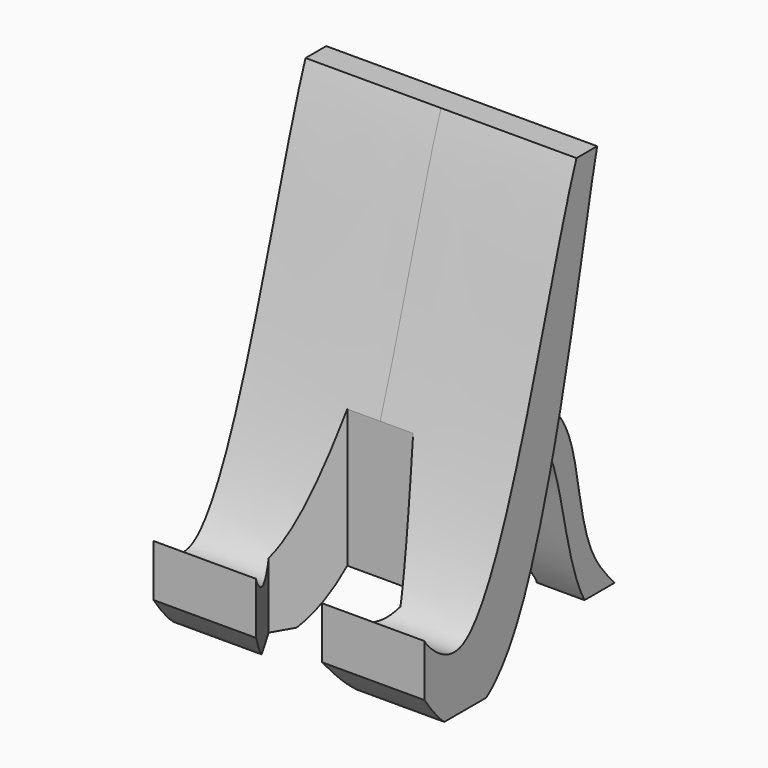
from build123d import *

# Parameters (mm, degrees)
F0_W      = 74.5288953185
F0_H      = 119.3781420588
F1_DEPTH  = 30
F3_DEPTH  = 119.3791420588
F5_DEPTH  = 47
F7_DEPTH  = 41.8
F9_DEPTH  = 25.4
F10_W     = 119.5100620389
F10_H     = 16.0929635167
F11_DEPTH = 40.3
F13_DEPTH = 67


with BuildPart() as f1:
    # F0 (on Front) → F1 (new body, symmetric)
    with BuildSketch(Plane.XZ):
        Rectangle(F0_W, F0_H)
    extrude(amount=F1_DEPTH, both=True)

    # F2 (on face) → F3 (cut, through all)
    with BuildSketch(Plane.XY.offset(59.6890710294)):
        Polygon((-9.0573634752, -30), (9.0573634752, -30), (18.1147269503, -14.3121862784), (9.0573634752, 1.3756274432), (-9.0573634752, 1.3756274432), (-18.1147269503, -14.3121862784), align=None)
    extrude(amount=-F3_DEPTH, mode=Mode.SUBTRACT)

    # F4 (on Right) → F5 (cut, symmetric)
    with BuildSketch(Plane.YZ):
        with BuildLine():
            add(Edge.make_bspline(
                [(-30.8008808643, -34.3624390662), (-29.7427929399, -36.5581158272), (-29.6678213279, -36.9559514908), (-7.5284761494, -58.8715995576), (18.2385470187, 60.9054818134), (35.8996360602, 81.0052202983), (-94.9363302503, 94.5640998475), (-36.141640614, -23.2796341319), (-30.8008808643, -34.3624390662)],
                knots=[0, 0, 0, 0, 0.0514883066, 0.1419994671, 0.4100666677, 0.5165416234, 0.7401098065, 1, 1, 1, 1], degree=3))
        make_face()
    extrude(amount=F5_DEPTH, both=True, mode=Mode.SUBTRACT)

    # F6 (on Right) → F7 (cut, symmetric)
    with BuildSketch(Plane.YZ):
        with BuildLine():
            add(Edge.make_bspline(
                [(-31.0647003353, -48.8724894822), (-28.4767558621, -52.2257468863), (-20.6976915889, -65.3410105528), (9.9531406843, -52.8861497733), (27.7685027626, 60.2440393706), (32.2043482398, 66.6543534368), (41.3468205941, 77.4491443401), (80.4081271316, 77.2352360032), (114.0683698745, -23.000432546), (32.7734774963, -91.2663772061), (-67.977833209, -55.0744400142), (-47.6619306768, -45.5984877201), (-35.7480362433, -44.1037398109), (-32.6957792413, -46.7590641459), (-31.0647003353, -48.8724894822)],
                knots=[0, 0, 0, 0, 0.0582322515, 0.1296952831, 0.2850542872, 0.3276435568, 0.3769743828, 0.4568560939, 0.5935389062, 0.7349689281, 0.8668274103, 0.9119090517, 0.9632985182, 1, 1, 1, 1], degree=3))
        make_face()
    extrude(amount=F7_DEPTH, both=True, mode=Mode.SUBTRACT)

    # F8 (on Right) → F9 (join, symmetric)
    with BuildSketch(Plane.YZ):
        with BuildLine():
            add(Edge.make_bspline(
                [(17.0822869986, 0), (23.8255299581, -2.093921217), (38.8536103621, -13.5813617172), (37.2717706432, -49.6946845709), (60.2362118849, -65.6566672683), (36.5126015642, -66.6722814951), (32.0760010277, -22.7613922718), (23.8247237933, -11.6384215516), (17.7838636021, -5.3811200438), (14.1329034888, -6.0538850633), (4.9525644133, 1.5921853607), (12.9658217747, 1.2782505277), (17.0822869986, 0)],
                knots=[0, 0, 0, 0, 0.1229893107, 0.277688597, 0.3866707462, 0.4698950848, 0.6354517699, 0.7355013001, 0.8043479262, 0.8549923953, 0.9249202167, 1, 1, 1, 1], degree=3))
        make_face()
    extrude(amount=F9_DEPTH, both=True)

    # F10 (on Right) → F11 (cut, symmetric)
    with BuildSketch(Plane.YZ):
        with Locations((6.9252513349, -66.4164610207)):
            Rectangle(F10_W, F10_H)
    extrude(amount=F11_DEPTH, both=True, mode=Mode.SUBTRACT)

    # F12 (on Top) → F13 (cut)
    with BuildSketch(Plane.XY):
        Polygon((6.2449584188, 50.1915849745), (-6.2449584188, 50.1915849745), (-12.4899168376, 39.374999702), (-6.2449584188, 28.5584144294), (6.2449584188, 28.5584144294), (12.4899168376, 39.374999702), align=None)
    extrude(amount=-F13_DEPTH, mode=Mode.SUBTRACT)


solid = f1.part
